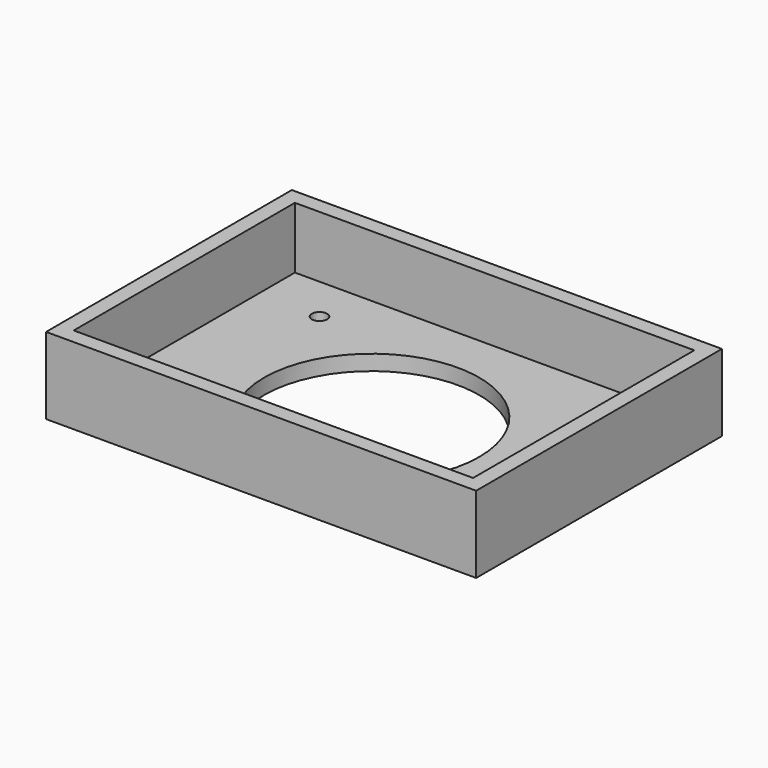
from build123d import *

# Parameters (mm, degrees)
F0_W     = 140
F0_H     = 100
F0_W_2   = 130
F0_H_2   = 90
F1_DEPTH = 25
F0_R     = 2.5
F0_R_2   = 35
F2_DEPTH = 5


with BuildPart() as f1:
    # F0 (on Top) → F1 (new body)
    with BuildSketch(Plane.XY):
        with Locations((70, 50)):
            Rectangle(F0_W, F0_H)
        with Locations((70, 50)):
            Rectangle(F0_W_2, F0_H_2, mode=Mode.SUBTRACT)
    extrude(amount=F1_DEPTH)

    # F0 (on Top) → F2 (join)
    with BuildSketch(Plane.XY):
        with Locations((70, 50)):
            Rectangle(F0_W_2, F0_H_2)
        with Locations((25, 15)):
            Circle(F0_R, mode=Mode.SUBTRACT)
        with Locations((115, 15)):
            Circle(F0_R, mode=Mode.SUBTRACT)
        with Locations((70, 45)):
            Circle(F0_R_2, mode=Mode.SUBTRACT)
        with Locations((25, 80)):
            Circle(F0_R, mode=Mode.SUBTRACT)
        with Locations((115, 80)):
            Circle(F0_R, mode=Mode.SUBTRACT)
    extrude(amount=F2_DEPTH)


solid = f1.part
